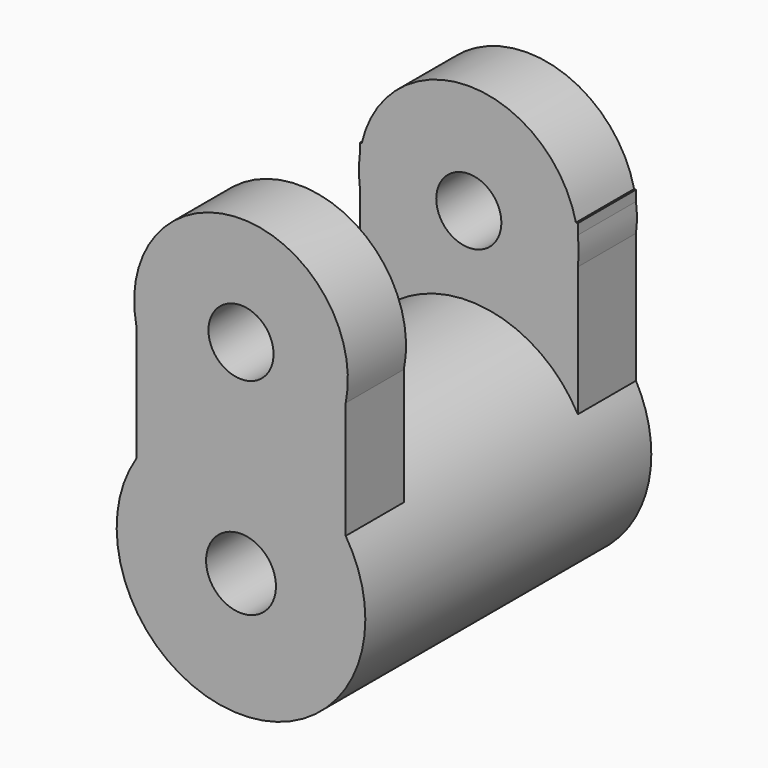
from build123d import *

# Parameters (mm, degrees)
F0_R      = 30.39041
F1_DEPTH  = 43.688
F3_DEPTH  = 17.78
F5_DEPTH  = 17.78
F6_R      = 8.542504
F7_DEPTH  = 104.14
F8_R      = 26.119062
F9_DEPTH  = 17.78
F10_R     = 26.864742
F11_DEPTH = 17.78
F12_R     = 7.954549
F13_DEPTH = 97.79


with BuildPart() as f1:
    # F0 (on Front) → F1 (new body, symmetric)
    with BuildSketch(Plane.XZ):
        Circle(F0_R)
    extrude(amount=F1_DEPTH, both=True)

    # F2 (on face) → F3 (join)
    with BuildSketch(Plane.XZ.offset(43.688)):
        with BuildLine():
            Line((-25.588728, 54.975592), (-25.588728, 16.394938))
            ThreePointArc((-25.588728, 16.394938), (0, 30.39041), (25.588728, 16.394938))
            Line((25.588728, 16.394938), (25.588728, 54.975592))
            Line((25.588728, 54.975592), (-25.588728, 54.975592))
        make_face()
        with BuildLine():
            Line((-25.588728, 16.394938), (-25.588728, -16.394938))
            Line((-25.588728, -16.394938), (25.588728, -16.394938))
            Line((25.588728, -16.394938), (25.588728, 16.394938))
            ThreePointArc((25.588728, 16.394938), (0, 30.39041), (-25.588728, 16.394938))
        make_face()
    extrude(amount=-F3_DEPTH)

    # F4 (on face) → F5 (join)
    with BuildSketch(Plane(origin=(0, 43.688, 0), x_dir=(-1, 0, 0), z_dir=(0, 1, 0))):
        with BuildLine():
            Line((-26.646163, 55.732163), (-26.646163, 14.613658))
            ThreePointArc((-26.646163, 14.613658), (0, 30.39041), (26.646163, 14.613658))
            Line((26.646163, 14.613658), (26.646163, 55.732163))
            Line((26.646163, 55.732163), (-26.646163, 55.732163))
        make_face()
        with BuildLine():
            Line((-26.646163, 14.613658), (-26.646163, -14.613658))
            Line((-26.646163, -14.613658), (26.646163, -14.613658))
            Line((26.646163, -14.613658), (26.646163, 14.613658))
            ThreePointArc((26.646163, 14.613658), (0, 30.39041), (-26.646163, 14.613658))
        make_face()
    extrude(amount=-F5_DEPTH)

    # F6 (on face) → F7 (cut)
    with BuildSketch(Plane(origin=(0, 43.688, 0), x_dir=(-1, 0, 0), z_dir=(0, 1, 0))):
        Circle(F6_R)
    extrude(amount=-F7_DEPTH, mode=Mode.SUBTRACT)

    # F8 (on face) → F9 (join)
    with BuildSketch(Plane.XZ.offset(43.688)):
        with Locations((0, 50.235286)):
            Circle(F8_R)
    extrude(amount=-F9_DEPTH)

    # F10 (on face) → F11 (join)
    with BuildSketch(Plane(origin=(0, 43.688, 0), x_dir=(-1, 0, 0), z_dir=(0, 1, 0))):
        with Locations((0, 49.751956)):
            Circle(F10_R)
    extrude(amount=-F11_DEPTH)

    # F12 (on face) → F13 (cut)
    with BuildSketch(Plane(origin=(0, 43.688, 0), x_dir=(-1, 0, 0), z_dir=(0, 1, 0))):
        with Locations((0, 49.751956)):
            Circle(F12_R)
    extrude(amount=-F13_DEPTH, mode=Mode.SUBTRACT)


solid = f1.part
